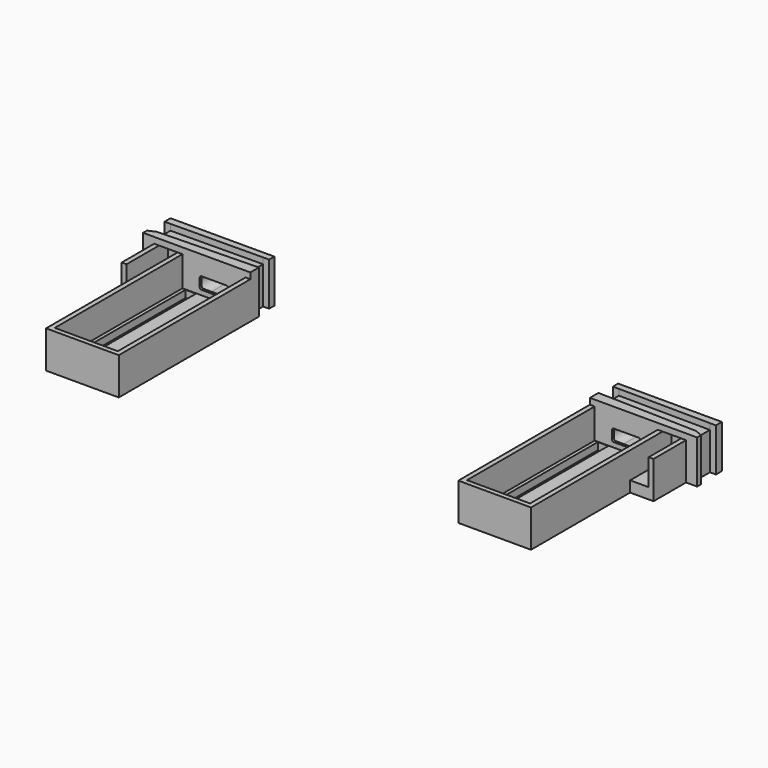
from build123d import *

# Parameters (mm, degrees)
SKETCH008_W     = 3.5
SKETCH008_H     = 51.38
PAD002_DEPTH    = 12.4
PAD003_DEPTH    = 2
SKETCH010_W     = 21
SKETCH010_H     = 53.1439524112
POCKET006_DEPTH = 10
SKETCH011_R     = 2.6
POCKET007_DEPTH = 24.3796707343
POCKET008_DEPTH = 16.2235914112
SKETCH013_R     = 4.35
POCKET009_DEPTH = 4.1
POCKET010_DEPTH = 10.8560793232
POCKET011_DEPTH = 10.0550793232
POCKET_DEPTH    = 1.09
SKETCH016_W     = 3.5
SKETCH016_H     = 51.38
PAD004_DEPTH    = 12.4
PAD005_DEPTH    = 2
SKETCH018_W     = 21
SKETCH018_H     = 53.1439524112
POCKET013_DEPTH = 10
SKETCH019_R     = 2.6
POCKET014_DEPTH = 24.3796707343
POCKET015_DEPTH = 16.2235914112
SKETCH021_R     = 4.35
POCKET016_DEPTH = 4.1
POCKET017_DEPTH = 10.8560793232
POCKET018_DEPTH = 10.0550793232
POCKET012_DEPTH = 1.09


with BuildPart() as body001:
    # Sketch008 → Pad002 (new body)
    with BuildSketch(Plane(origin=(0, 0, 0), x_dir=(-1, 0, 0), z_dir=(0, 0, -1))):
        Polygon((-89.7690858187, 37.4209880882), (-92.205606, 36.3361794112), (-92.205606, 34.7361794112), (-88.505606, 34.7361794112), (-88.505606, 21.212588), (-80.705606, 21.212588), (-80.705606, -20.007773), (-56.505606, -20.007773), (-56.505606, 38.292227), (-59.205606, 38.292227), (-59.205606, 43.412588), (-57.205606, 43.412588), (-57.205606, 45.5912587343), (-91.7678030502, 45.5912587343), (-91.7678030502, 43.0912587343), (-89.7678755353, 43.1082862119), align=None)
        with Locations((-76.205606, 8.882227)):
            Rectangle(SKETCH008_W, SKETCH008_H, mode=Mode.SUBTRACT)
        with Locations((-61.005606, 8.882227)):
            Rectangle(SKETCH008_W, SKETCH008_H, mode=Mode.SUBTRACT)
    extrude(amount=-PAD002_DEPTH)

    # Sketch009 (on Face26 of Pad002) → Pad003 (join)
    with BuildSketch(Plane.XY.offset(12.4)):
        Polygon((92.205606, 34.7361794112), (56.505606, 34.7361794112), (56.505606, 38.292227), (89.7690858187, 37.4209880882), (92.205606, 36.3361794112), align=None)
        Polygon((59.205606, 43.412588), (57.205606, 43.412588), (57.205606, 45.5912587343), (91.7678030502, 45.5912587343), (91.7678030502, 43.0912587343), (89.7678755353, 43.1082862119), align=None)
    extrude(amount=PAD003_DEPTH)

    # Sketch010 (on Face36 of Pad003) → Pocket006 (cut)
    with BuildSketch(Plane.XY.offset(12.4)):
        with Locations((68.605606, 8.1642032056)):
            Rectangle(SKETCH010_W, SKETCH010_H)
    extrude(amount=-POCKET006_DEPTH, mode=Mode.SUBTRACT)

    # Sketch011 (on Face12 of Pocket006) → Pocket007 (cut, through all)
    with BuildSketch(Plane.XZ.offset(-21.212588)):
        with Locations((83.805606, 6.2)):
            Circle(SKETCH011_R)
    extrude(amount=-POCKET007_DEPTH, mode=Mode.SUBTRACT)

    # Sketch012 (on Face12 of Pocket007) → Pocket008 (cut)
    with BuildSketch(Plane.XZ.offset(-21.212588)):
        Polygon((86.905606, 8.8), (86.905606, 3.6), (80.705606, 3.6), (80.705606, 8.8), (80.705606, 12.4), (86.905606, 12.4), align=None)
    extrude(amount=-POCKET008_DEPTH, mode=Mode.SUBTRACT)

    # Sketch013 (on Face20 of Pocket008) → Pocket009 (cut)
    with BuildSketch(Plane(origin=(0, 45.5912587343, 0), x_dir=(-1, 0, 0), z_dir=(0, 1, 0))):
        with Locations((-83.805606, 6.2000000001)):
            Circle(SKETCH013_R)
    extrude(amount=-POCKET009_DEPTH, mode=Mode.SUBTRACT)

    # Sketch014 (on Face51 of Pocket009) → Pocket010 (cut, through all)
    with BuildSketch(Plane.XZ.offset(-34.7361794112)):
        with BuildLine():
            ThreePointArc((64.455606, 8), (64.0313419313, 7.8242640687), (63.855606, 7.4))
            Line((63.855606, 4.6), (63.855606, 7.4))
            ThreePointArc((63.855606, 4.6), (64.0313419313, 4.1757359313), (64.455606, 4))
            Line((72.755606, 4), (64.455606, 4))
            ThreePointArc((72.755606, 4), (73.1798700687, 4.1757359313), (73.355606, 4.6))
            Line((73.355606, 7.4), (73.355606, 4.6))
            ThreePointArc((73.355606, 7.4), (73.1798700687, 7.8242640687), (72.755606, 8))
            Line((64.455606, 8), (72.755606, 8))
        make_face()
    extrude(amount=-POCKET010_DEPTH, mode=Mode.SUBTRACT)

    # Sketch015 (on Face20 of Pocket010) → Pocket011 (cut)
    with BuildSketch(Plane(origin=(0, 45.5912587343, 0), x_dir=(-1, 0, 0), z_dir=(0, 1, 0))):
        with BuildLine():
            ThreePointArc((-72.755606, 10.25), (-74.7708603264, 9.4152543264), (-75.605606, 7.4))
            Line((-75.605606, 4.6), (-75.605606, 7.4))
            ThreePointArc((-75.605606, 4.6), (-74.7708603264, 2.5847456736), (-72.755606, 1.75))
            Line((-64.455606, 1.75), (-72.755606, 1.75))
            ThreePointArc((-64.455606, 1.75), (-62.4403516736, 2.5847456736), (-61.605606, 4.6))
            Line((-61.605606, 7.4), (-61.605606, 4.6))
            ThreePointArc((-61.605606, 7.4), (-62.4403516736, 9.4152543264), (-64.455606, 10.25))
            Line((-72.755606, 10.25), (-64.455606, 10.25))
        make_face()
    extrude(amount=-POCKET011_DEPTH, mode=Mode.SUBTRACT)

    # Pocket011 Face60 → Pocket (cut)
    with BuildSketch(Plane(origin=(83.805606, 37.4361794112, 9.147168329), x_dir=(-1, 0, 0), z_dir=(0, -1, 0))):
        Polygon((3.1, 0.347168329), (3.1, 5.547168329), (0, 5.547168329), (-3.1, 5.547168329), (-3.1, 0.347168329), (-3.1, -3.252831671), (3.1, -3.252831671), align=None)
        with BuildLine():
            ThreePointArc((-2.6, 2.947168329), (-1.8384776311, 4.7856459601), (0, 5.547168329))
            ThreePointArc((0, 5.547168329), (1.8384776311, 1.1086906979), (-2.6, 2.947168329))
        make_face(mode=Mode.SUBTRACT)
    extrude(amount=-POCKET_DEPTH, mode=Mode.SUBTRACT)


with BuildPart() as body002:
    # Sketch016 → Pad004 (new body)
    with BuildSketch(Plane(origin=(0, 0, 0), x_dir=(-1, 0, 0), z_dir=(0, 0, -1))):
        Polygon((-89.7690858187, 37.4209880882), (-92.205606, 36.3361794112), (-92.205606, 34.7361794112), (-88.505606, 34.7361794112), (-88.505606, 21.212588), (-80.705606, 21.212588), (-80.705606, -20.007773), (-56.505606, -20.007773), (-56.505606, 38.292227), (-59.205606, 38.292227), (-59.205606, 43.412588), (-57.205606, 43.412588), (-57.205606, 45.5912587343), (-91.7678030502, 45.5912587343), (-91.7678030502, 43.0912587343), (-89.7678755353, 43.1082862119), align=None)
        with Locations((-76.205606, 8.882227)):
            Rectangle(SKETCH016_W, SKETCH016_H, mode=Mode.SUBTRACT)
        with Locations((-61.005606, 8.882227)):
            Rectangle(SKETCH016_W, SKETCH016_H, mode=Mode.SUBTRACT)
    extrude(amount=-PAD004_DEPTH)

    # Sketch017 (on Face26 of Pad004) → Pad005 (join)
    with BuildSketch(Plane.XY.offset(12.4)):
        Polygon((92.205606, 34.7361794112), (56.505606, 34.7361794112), (56.505606, 38.292227), (89.7690858187, 37.4209880882), (92.205606, 36.3361794112), align=None)
        Polygon((59.205606, 43.412588), (57.205606, 43.412588), (57.205606, 45.5912587343), (91.7678030502, 45.5912587343), (91.7678030502, 43.0912587343), (89.7678755353, 43.1082862119), align=None)
    extrude(amount=PAD005_DEPTH)

    # Sketch018 (on Face36 of Pad005) → Pocket013 (cut)
    with BuildSketch(Plane.XY.offset(12.4)):
        with Locations((68.605606, 8.1642032056)):
            Rectangle(SKETCH018_W, SKETCH018_H)
    extrude(amount=-POCKET013_DEPTH, mode=Mode.SUBTRACT)

    # Sketch019 (on Face12 of Pocket013) → Pocket014 (cut, through all)
    with BuildSketch(Plane.XZ.offset(-21.212588)):
        with Locations((83.805606, 6.2)):
            Circle(SKETCH019_R)
    extrude(amount=-POCKET014_DEPTH, mode=Mode.SUBTRACT)

    # Sketch020 (on Face12 of Pocket014) → Pocket015 (cut)
    with BuildSketch(Plane.XZ.offset(-21.212588)):
        Polygon((86.905606, 8.8), (86.905606, 3.6), (80.705606, 3.6), (80.705606, 8.8), (80.705606, 12.4), (86.905606, 12.4), align=None)
    extrude(amount=-POCKET015_DEPTH, mode=Mode.SUBTRACT)

    # Sketch021 (on Face20 of Pocket015) → Pocket016 (cut)
    with BuildSketch(Plane(origin=(0, 45.5912587343, 0), x_dir=(-1, 0, 0), z_dir=(0, 1, 0))):
        with Locations((-83.805606, 6.2000000001)):
            Circle(SKETCH021_R)
    extrude(amount=-POCKET016_DEPTH, mode=Mode.SUBTRACT)

    # Sketch022 (on Face51 of Pocket016) → Pocket017 (cut, through all)
    with BuildSketch(Plane.XZ.offset(-34.7361794112)):
        with BuildLine():
            ThreePointArc((64.455606, 8), (64.0313419313, 7.8242640687), (63.855606, 7.4))
            Line((63.855606, 4.6), (63.855606, 7.4))
            ThreePointArc((63.855606, 4.6), (64.0313419313, 4.1757359313), (64.455606, 4))
            Line((72.755606, 4), (64.455606, 4))
            ThreePointArc((72.755606, 4), (73.1798700687, 4.1757359313), (73.355606, 4.6))
            Line((73.355606, 7.4), (73.355606, 4.6))
            ThreePointArc((73.355606, 7.4), (73.1798700687, 7.8242640687), (72.755606, 8))
            Line((64.455606, 8), (72.755606, 8))
        make_face()
    extrude(amount=-POCKET017_DEPTH, mode=Mode.SUBTRACT)

    # Sketch023 (on Face20 of Pocket017) → Pocket018 (cut)
    with BuildSketch(Plane(origin=(0, 45.5912587343, 0), x_dir=(-1, 0, 0), z_dir=(0, 1, 0))):
        with BuildLine():
            ThreePointArc((-72.755606, 10.25), (-74.7708603264, 9.4152543264), (-75.605606, 7.4))
            Line((-75.605606, 4.6), (-75.605606, 7.4))
            ThreePointArc((-75.605606, 4.6), (-74.7708603264, 2.5847456736), (-72.755606, 1.75))
            Line((-64.455606, 1.75), (-72.755606, 1.75))
            ThreePointArc((-64.455606, 1.75), (-62.4403516736, 2.5847456736), (-61.605606, 4.6))
            Line((-61.605606, 7.4), (-61.605606, 4.6))
            ThreePointArc((-61.605606, 7.4), (-62.4403516736, 9.4152543264), (-64.455606, 10.25))
            Line((-72.755606, 10.25), (-64.455606, 10.25))
        make_face()
    extrude(amount=-POCKET018_DEPTH, mode=Mode.SUBTRACT)

    # Pocket018 Face60 → Pocket012 (cut)
    with BuildSketch(Plane(origin=(83.805606, 37.4361794112, 9.147168329), x_dir=(-1, 0, 0), z_dir=(0, -1, 0))):
        Polygon((3.1, 0.347168329), (3.1, 5.547168329), (0, 5.547168329), (-3.1, 5.547168329), (-3.1, 0.347168329), (-3.1, -3.252831671), (3.1, -3.252831671), align=None)
        with BuildLine():
            ThreePointArc((-2.6, 2.947168329), (-1.8384776311, 4.7856459601), (0, 5.547168329))
            ThreePointArc((0, 5.547168329), (1.8384776311, 1.1086906979), (-2.6, 2.947168329))
        make_face(mode=Mode.SUBTRACT)
    extrude(amount=-POCKET012_DEPTH, mode=Mode.SUBTRACT)


with BuildPart() as part_mirroring:
    # Part__Mirroring: instance of Body002
    add(body002.part.mirror(Plane(origin=(0, 0, 0), x_dir=(0, -1, 0), z_dir=(1, 0, 0))))


solid = Compound([body001.part, part_mirroring.part])
